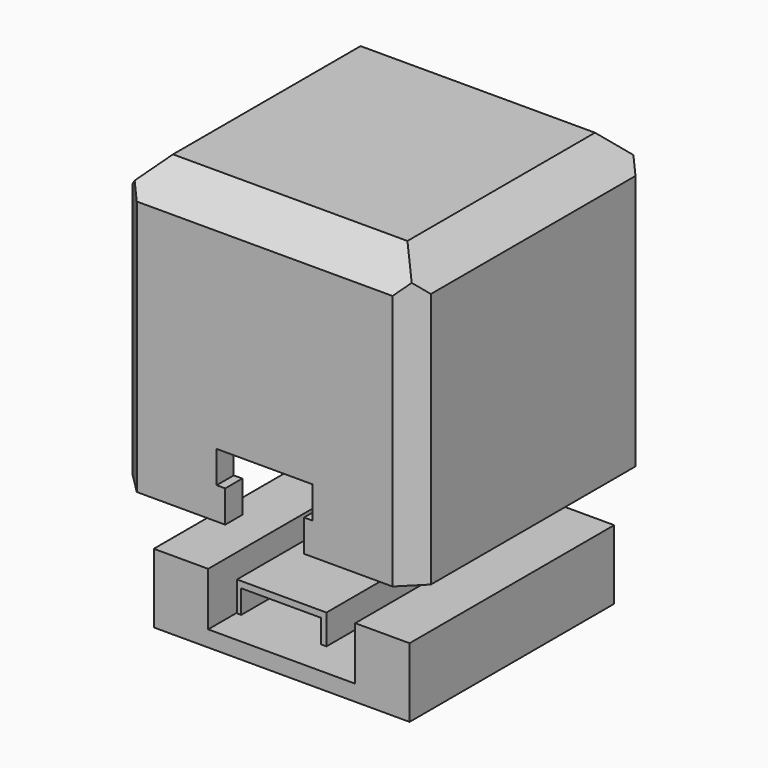
from build123d import *

# Parameters (mm, degrees)
BOX_W           = 28
BOX_H           = 28
BOX_DEPTH       = 27
BOX001_W        = 24.4
BOX001_H        = 24.4
BOX001_DEPTH    = 25
BOX004_W        = 7.4
BOX004_H        = 2.3
BOX004_DEPTH    = 5
CHAMFER_SIZE    = 3
CHAMFER001_SIZE = 2
BOX007_W        = 3
BOX007_H        = 3
BOX007_DEPTH    = 15
BOX008_W        = 3
BOX008_H        = 3
BOX008_DEPTH    = 7
BOX009_W        = 9
BOX009_H        = 2
BOX009_DEPTH    = 3
BOX002_W        = 24
BOX002_H        = 24
BOX002_DEPTH    = 6.5
BOX003_W        = 13.8
BOX003_H        = 14.6
BOX003_DEPTH    = 5
BOX005_W        = 8.4
BOX005_H        = 15.5
BOX005_DEPTH    = 2.8
BOX006_W        = 7.5
BOX006_H        = 6
BOX006_DEPTH    = 2.4


with BuildPart() as body:
    # Box → Box (join)
    with BuildSketch(Plane.XY):
        with Locations((14, 14)):
            Rectangle(BOX_W, BOX_H)
    extrude(amount=BOX_DEPTH)

    # Box001 → Box001 (cut)
    with BuildSketch(Plane(origin=(2, 2, 0), x_dir=(1, 0, 0), z_dir=(0, 0, 1))):
        with Locations((12.2, 12.2)):
            Rectangle(BOX001_W, BOX001_H)
    extrude(amount=BOX001_DEPTH, mode=Mode.SUBTRACT)

    # Box004 → Box004 (cut)
    with BuildSketch(Plane(origin=(10.3, 0, 0), x_dir=(1, 0, 0), z_dir=(0, 0, 1))):
        with Locations((3.7, 1.15)):
            Rectangle(BOX004_W, BOX004_H)
    extrude(amount=BOX004_DEPTH, mode=Mode.SUBTRACT)

    # Chamfer
    chamfer_edges = [body.edges().sort_by_distance(p)[0] for p in [
        (0, 14, 27),
        (14, 0, 27),
        (28, 14, 27),
        (14, 28, 27),
    ]]
    chamfer(chamfer_edges, length=CHAMFER_SIZE)

    # Chamfer001
    chamfer001_edges = [body.edges().sort_by_distance(p)[0] for p in [
        (0, 0, 12),
        (0, 28, 12),
        (28, 0, 12),
        (28, 28, 12),
    ]]
    chamfer(chamfer001_edges, length=CHAMFER001_SIZE)

    # Box007 → Box007 (join)
    with BuildSketch(Plane(origin=(23.4, 24, 10), x_dir=(1, 0, 0), z_dir=(0, 0, 1))):
        with Locations((1.5, 1.5)):
            Rectangle(BOX007_W, BOX007_H)
    extrude(amount=BOX007_DEPTH)

    # Box008 → Box008 (join)
    with BuildSketch(Plane(origin=(2, 23, 18), x_dir=(1, 0, 0), z_dir=(0, 0, 1))):
        with Locations((1.5, 1.5)):
            Rectangle(BOX008_W, BOX008_H)
    extrude(amount=BOX008_DEPTH)

    # Box009 → Box009 (cut)
    with BuildSketch(Plane(origin=(9.5, 0, 3), x_dir=(1, 0, 0), z_dir=(0, 0, 1))):
        with Locations((4.5, 1)):
            Rectangle(BOX009_W, BOX009_H)
    extrude(amount=BOX009_DEPTH, mode=Mode.SUBTRACT)


with BuildPart() as body001:
    # Box002 → Box002 (join)
    with BuildSketch(Plane(origin=(2, 2, -12), x_dir=(1, 0, 0), z_dir=(0, 0, 1))):
        with Locations((12, 12)):
            Rectangle(BOX002_W, BOX002_H)
    extrude(amount=BOX002_DEPTH)

    # Box003 → Box003 (cut)
    with BuildSketch(Plane(origin=(7.1, 2, -10.5), x_dir=(1, 0, 0), z_dir=(0, 0, 1))):
        with Locations((6.9, 7.3)):
            Rectangle(BOX003_W, BOX003_H)
    extrude(amount=BOX003_DEPTH, mode=Mode.SUBTRACT)

    # Box005 → Box005 (join)
    with BuildSketch(Plane(origin=(9.8, 2, -8.3), x_dir=(1, 0, 0), z_dir=(0, 0, 1))):
        with Locations((4.2, 7.75)):
            Rectangle(BOX005_W, BOX005_H)
    extrude(amount=BOX005_DEPTH)

    # Box006 → Box006 (cut)
    with BuildSketch(Plane(origin=(10.2, 2, -8.5), x_dir=(1, 0, 0), z_dir=(0, 0, 1))):
        with Locations((3.75, 3)):
            Rectangle(BOX006_W, BOX006_H)
    extrude(amount=BOX006_DEPTH, mode=Mode.SUBTRACT)


solid = Compound([body.part, body001.part])
